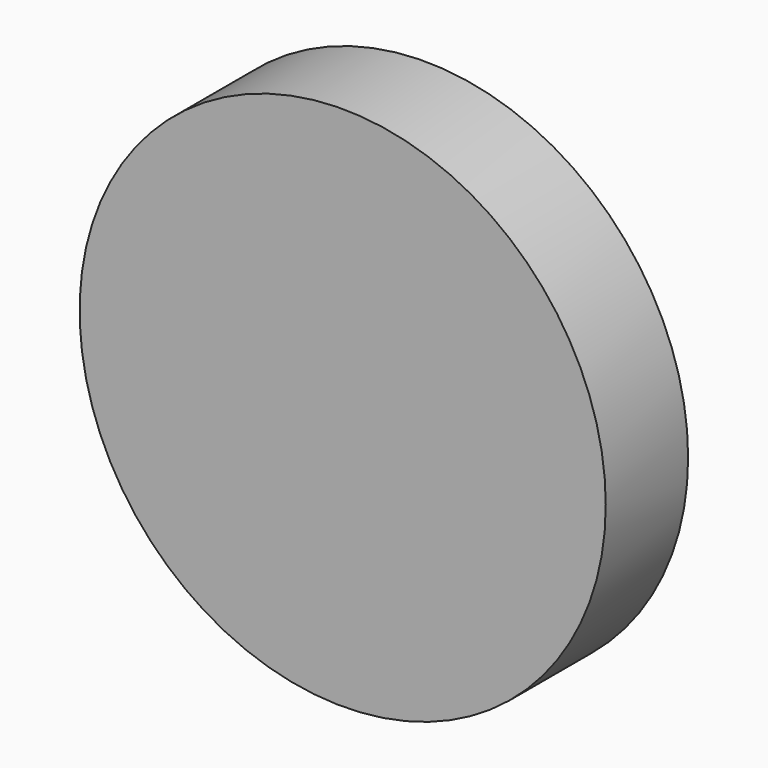
from build123d import *

# Parameters (mm, degrees)
F0_R     = 64.9003347112
F0_R_2   = 52.4386371528
F0_R_3   = 43.9959794901
F0_R_4   = 37.3448373021
F0_R_5   = 31.039203736
F0_R_6   = 18.1186551222
F0_R_7   = 10.5868001137
F1_DEPTH = 25.4


with BuildPart() as f1:
    # F0 (on Front) → F1 (new body)
    with BuildSketch(Plane.XZ):
        with Locations((9.8261000866, 2.0981023724)):
            Circle(F0_R)
        with Locations((4.8875806308, 5.8475805975)):
            Circle(F0_R_2, mode=Mode.SUBTRACT)
        with Locations((4.8875806308, 5.8475805975)):
            Circle(F0_R_2)
        with Locations((7.0480087169, 6.4648558984)):
            Circle(F0_R_3, mode=Mode.SUBTRACT)
        with Locations((7.0480087169, 6.4648558984)):
            Circle(F0_R_3)
        with Locations((4.8038782369, 10.1760022451)):
            Circle(F0_R_4, mode=Mode.SUBTRACT)
        with Locations((4.8038782369, 10.1760022451)):
            Circle(F0_R_4)
        with Locations((5.109029089, 13.3810980395)):
            Circle(F0_R_5, mode=Mode.SUBTRACT)
        with Locations((5.109029089, 13.3810980395)):
            Circle(F0_R_5)
        with Locations((0.5840508599, 18.2566457309)):
            Circle(F0_R_6, mode=Mode.SUBTRACT)
        with Locations((0.5840508599, 18.2566457309)):
            Circle(F0_R_6)
        with Locations((2.0167203451, 20.3426098436)):
            Circle(F0_R_7, mode=Mode.SUBTRACT)
        with Locations((2.0167203451, 20.3426098436)):
            Circle(F0_R_7)
    extrude(amount=F1_DEPTH)


solid = f1.part
